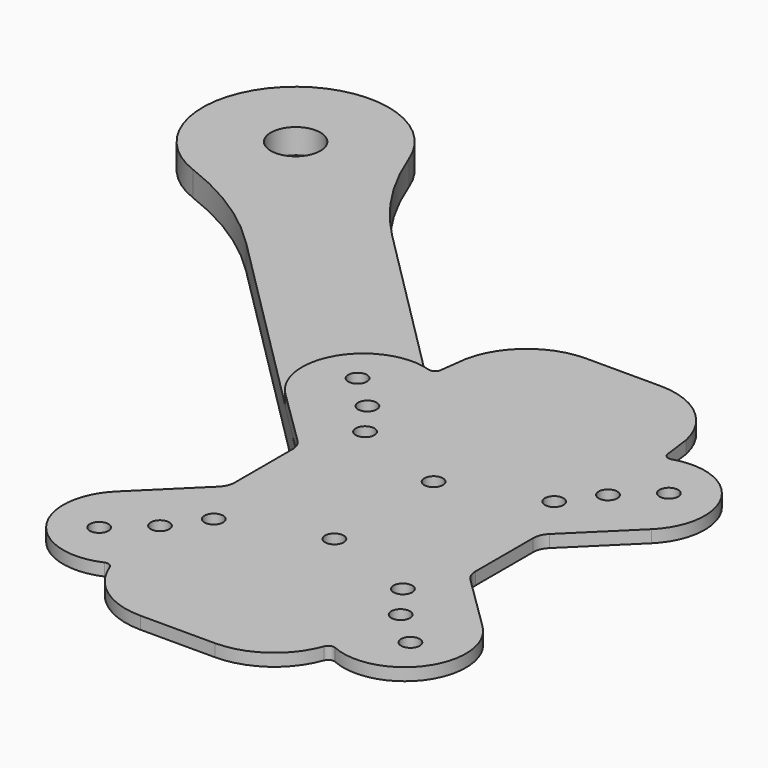
from build123d import *

# Parameters (mm, degrees)
F0_R     = 1.5
F1_DEPTH = 2
F2_R     = 1.5
F2_R_2   = 4
F3_DEPTH = 4


with BuildPart() as f1:
    # F0 (on Top) → F1 (new body)
    with BuildSketch(Plane.XY):
        with BuildLine():
            Line((6, 48.24), (-6, 48.24))
            ThreePointArc((-6, 48.24), (-13.546678, 45.569933), (-17.735, 38.747942))
            Line((-17.735, 38.747942), (-18.311206, 34.311183))
            ThreePointArc((-18.311206, 34.311183), (-18.765671, 33.596522), (-19.605463, 33.48685))
            ThreePointArc((-19.605463, 33.48685), (-31.058795, 29.166919), (-29.519984, 17.023086))
            Line((-29.519984, 17.023086), (-20.30592, 7.968451))
            ThreePointArc((-20.30592, 7.968451), (-19.639346, 6.98485), (-19.405, 5.82))
            Line((-19.405, 5.82), (-19.405, -5.82))
            ThreePointArc((-19.405, -5.82), (-19.639346, -6.98485), (-20.30592, -7.968451))
            Line((-20.30592, -7.968451), (-29.519984, -17.023086))
            ThreePointArc((-29.519984, -17.023086), (-30.776051, -29.609386), (-18.623152, -33.116481))
            ThreePointArc((-18.623152, -33.116481), (-17.827502, -33.112853), (-17.281055, -33.691185))
            ThreePointArc((-17.281055, -33.691185), (-12.888606, -39.425839), (-6, -41.6))
            Line((-6, -41.6), (6, -41.6))
            ThreePointArc((6, -41.6), (12.888606, -39.425839), (17.281055, -33.691185))
            ThreePointArc((17.281055, -33.691185), (17.827502, -33.112853), (18.623152, -33.116481))
            ThreePointArc((18.623152, -33.116481), (30.776051, -29.609386), (29.519984, -17.023086))
            Line((29.519984, -17.023086), (20.30592, -7.968451))
            ThreePointArc((20.30592, -7.968451), (19.639346, -6.98485), (19.405, -5.82))
            Line((19.405, -5.82), (19.405, 5.82))
            ThreePointArc((19.405, 5.82), (19.639346, 6.98485), (20.30592, 7.968451))
            Line((20.30592, 7.968451), (29.519984, 17.023086))
            ThreePointArc((29.519984, 17.023086), (31.058795, 29.166919), (19.605463, 33.48685))
            ThreePointArc((19.605463, 33.48685), (18.765671, 33.596522), (18.311206, 34.311183))
            Line((18.311206, 34.311183), (17.735, 38.747942))
            ThreePointArc((17.735, 38.747942), (13.546678, 45.569933), (6, 48.24))
        make_face()
        with Locations((-25.1, -26.05)):
            Circle(F0_R, mode=Mode.SUBTRACT)
        with Locations((-19.405, -20.905)):
            Circle(F0_R, mode=Mode.SUBTRACT)
        with Locations((-15.25, -15.25)):
            Circle(F0_R, mode=Mode.SUBTRACT)
        with Locations((0, -10)):
            Circle(F0_R, mode=Mode.SUBTRACT)
        with Locations((19.405, -20.905)):
            Circle(F0_R, mode=Mode.SUBTRACT)
        with Locations((25.1, -26.05)):
            Circle(F0_R, mode=Mode.SUBTRACT)
        with Locations((15.25, -15.25)):
            Circle(F0_R, mode=Mode.SUBTRACT)
        with Locations((-19.405, 20.905)):
            Circle(F0_R, mode=Mode.SUBTRACT)
        with Locations((0, 10)):
            Circle(F0_R, mode=Mode.SUBTRACT)
        with Locations((-15.25, 15.25)):
            Circle(F0_R, mode=Mode.SUBTRACT)
        with Locations((-25.1, 26.05)):
            Circle(F0_R, mode=Mode.SUBTRACT)
        with Locations((15.25, 15.25)):
            Circle(F0_R, mode=Mode.SUBTRACT)
        with Locations((19.405, 20.905)):
            Circle(F0_R, mode=Mode.SUBTRACT)
        with Locations((25.1, 26.05)):
            Circle(F0_R, mode=Mode.SUBTRACT)
    extrude(amount=F1_DEPTH)


with BuildPart() as f3:
    # F2 (on Top) → F3 (new body)
    with BuildSketch(Plane.XY):
        with BuildLine():
            ThreePointArc((-48.451689, 62.197457), (-55.096571, 70.423817), (-59.862741, 79.863684))
            ThreePointArc((-59.862741, 79.863684), (-84.49926, 85.163552), (-79.199392, 60.527033))
            ThreePointArc((-79.199392, 60.527033), (-69.759526, 55.760863), (-61.533165, 49.115981))
            Line((-61.533165, 49.115981), (-12.417184, 0))
            Line((-12.417184, 0), (0, 0))
            Line((0, 0), (0, 0.664292))
            Line((0, 0.664292), (0, 8.5))
            ThreePointArc((0, 8.5), (-1.5, 10), (0, 11.5))
            Line((0, 11.5), (0, 13.745767))
            Line((0, 13.745767), (-48.451689, 62.197457))
        make_face()
        with Locations((-15.25, 15.25)):
            Circle(F2_R, mode=Mode.SUBTRACT)
        with Locations((-19.405, 20.905)):
            Circle(F2_R, mode=Mode.SUBTRACT)
        with Locations((-25.1, 26.05)):
            Circle(F2_R, mode=Mode.SUBTRACT)
        with Locations((-73.892659, 74.55695)):
            Circle(F2_R_2, mode=Mode.SUBTRACT)
    extrude(amount=-F3_DEPTH)


solid = Compound([f1.part, f3.part])
